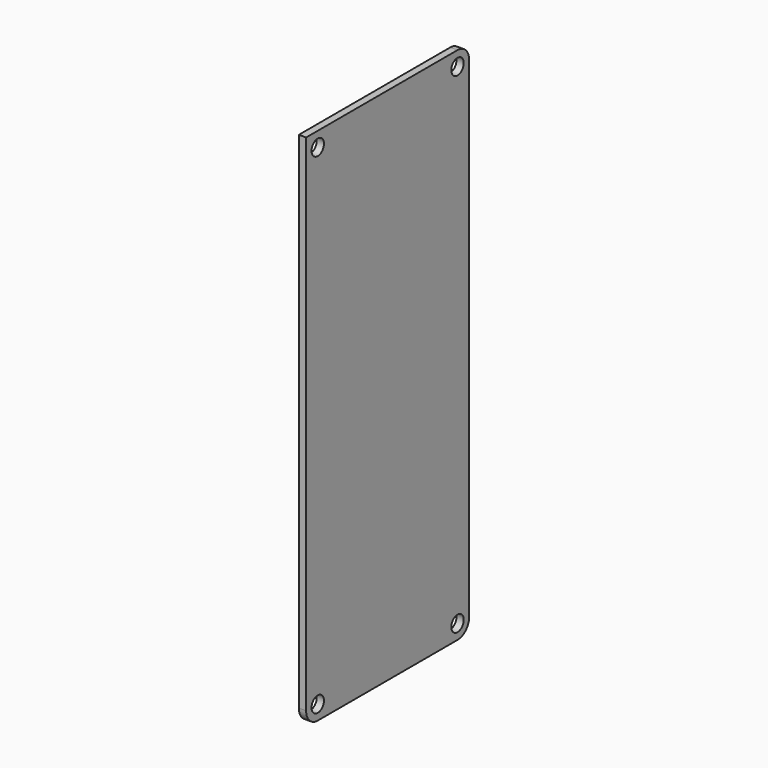
from build123d import *

# Parameters (mm, degrees)
CYLINDER006_R     = 1.6
CYLINDER006_DEPTH = 10
CYLINDER007_R     = 1.6
CYLINDER007_DEPTH = 10
CYLINDER008_R     = 1.6
CYLINDER008_DEPTH = 10
CYLINDER005_R     = 1.6
CYLINDER005_DEPTH = 10
BOX_W             = 1.5
BOX_H             = 42
BOX_DEPTH         = 107
FILLET_R          = 3


with BuildPart() as cylinder006:
    # Cylinder006 → Cylinder006 (new body)
    with BuildSketch(Plane(origin=(5, 39, 3), x_dir=(0, 0, 1), z_dir=(-1, 0, 0))):
        Circle(CYLINDER006_R)
    extrude(amount=CYLINDER006_DEPTH)


with BuildPart() as cylinder007:
    # Cylinder007 → Cylinder007 (new body)
    with BuildSketch(Plane(origin=(5, 3, 104), x_dir=(0, 0, 1), z_dir=(-1, 0, 0))):
        Circle(CYLINDER007_R)
    extrude(amount=CYLINDER007_DEPTH)


with BuildPart() as cylinder008:
    # Cylinder008 → Cylinder008 (new body)
    with BuildSketch(Plane(origin=(5, 39, 104), x_dir=(0, 0, 1), z_dir=(-1, 0, 0))):
        Circle(CYLINDER008_R)
    extrude(amount=CYLINDER008_DEPTH)


with BuildPart() as m3_cyl:
    # Cylinder005 → Cylinder005 (new body)
    with BuildSketch(Plane(origin=(5, 3, 3), x_dir=(0, 0, 1), z_dir=(-1, 0, 0))):
        Circle(CYLINDER005_R)
    extrude(amount=CYLINDER005_DEPTH)

    # Fusion004: union Cylinder006, Cylinder007, Cylinder008
    add(cylinder006.part)
    add(cylinder007.part)
    add(cylinder008.part)


with BuildPart() as pcb:
    # Box → Box (new body)
    with BuildSketch(Plane.XY):
        with Locations((0.75, 21)):
            Rectangle(BOX_W, BOX_H)
    extrude(amount=BOX_DEPTH)

    # Cut: cut m3_cyl
    add(m3_cyl.part, mode=Mode.SUBTRACT)

    # Fillet
    fillet_edges = [pcb.edges().sort_by_distance(p)[0] for p in [
        (0.75, 0, 0),
        (0.75, 42, 107),
        (0.75, 42, 0),
    ]]
    fillet(fillet_edges, radius=FILLET_R)


solid = pcb.part
